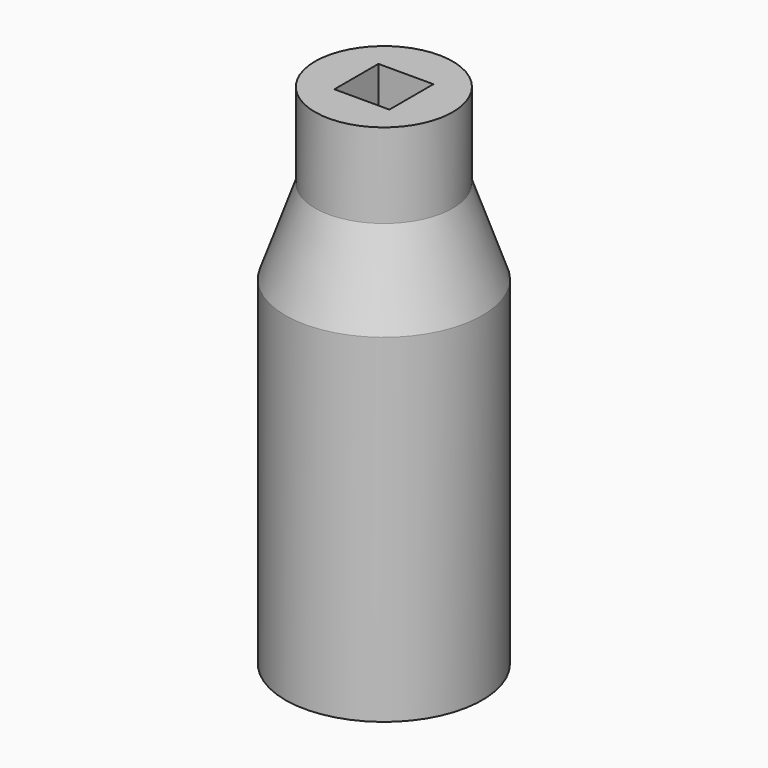
from build123d import *

# Parameters (mm, degrees)
SKETCH001_W     = 6.5
SKETCH001_H     = 6.5
POCKET_DEPTH    = 10
POCKET001_DEPTH = 40


with BuildPart() as part:
    # Sketch → Revolution (revolve)
    with BuildSketch(Plane.XZ):
        Polygon((0, 0), (-11.635, 0), (-11.635, 40), (-8.125, 50), (-8.125, 60), (0, 60), (0, 50), (-4.5, 50), (-4.5, 40), (0, 40), align=None)
    revolve(axis=Axis((0, 0, 0), (0, 0, 1)))

    # Sketch001 (on DatumPlane) → Pocket (cut)
    with BuildSketch(Plane.XY.offset(60)):
        Rectangle(SKETCH001_W, SKETCH001_H)
    extrude(amount=-POCKET_DEPTH, mode=Mode.SUBTRACT)

    # Sketch002 → Pocket001 (cut)
    with BuildSketch(Plane.XY):
        Polygon((10.33457, 0), (5.167285, 8.95), (-5.167285, 8.95), (-10.33457, 0), (-5.167285, -8.95), (5.167285, -8.95), align=None)
    extrude(amount=POCKET001_DEPTH, mode=Mode.SUBTRACT)


solid = part.part
